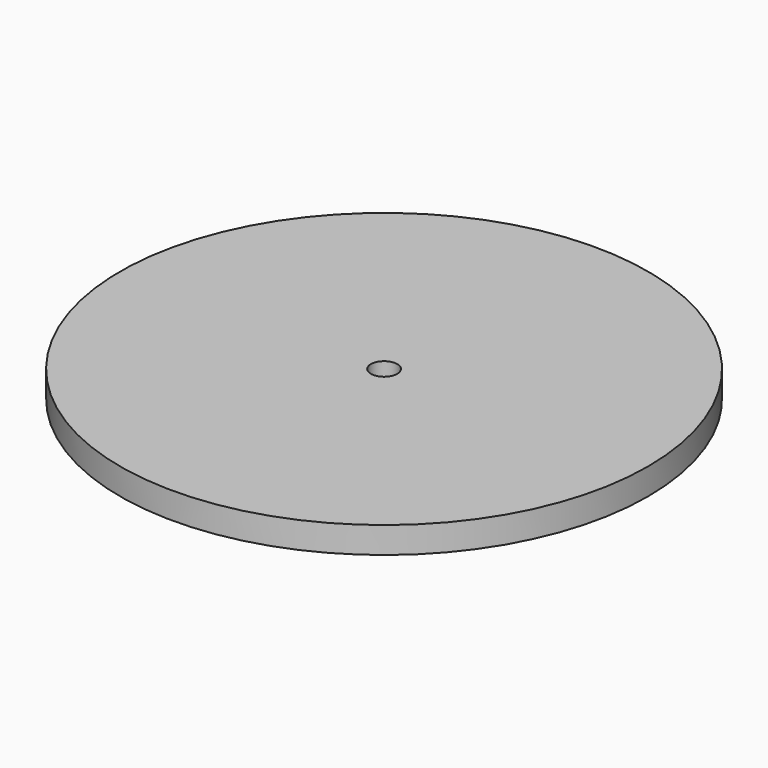
from build123d import *

# Parameters (mm, degrees)
SKETCH_R   = 127
SKETCH_R_2 = 6.35
PAD_DEPTH  = 12.7


with BuildPart() as part:
    # Sketch → Pad (new body)
    with BuildSketch(Plane.XY):
        Circle(SKETCH_R)
        Circle(SKETCH_R_2, mode=Mode.SUBTRACT)
    extrude(amount=PAD_DEPTH)


solid = part.part
